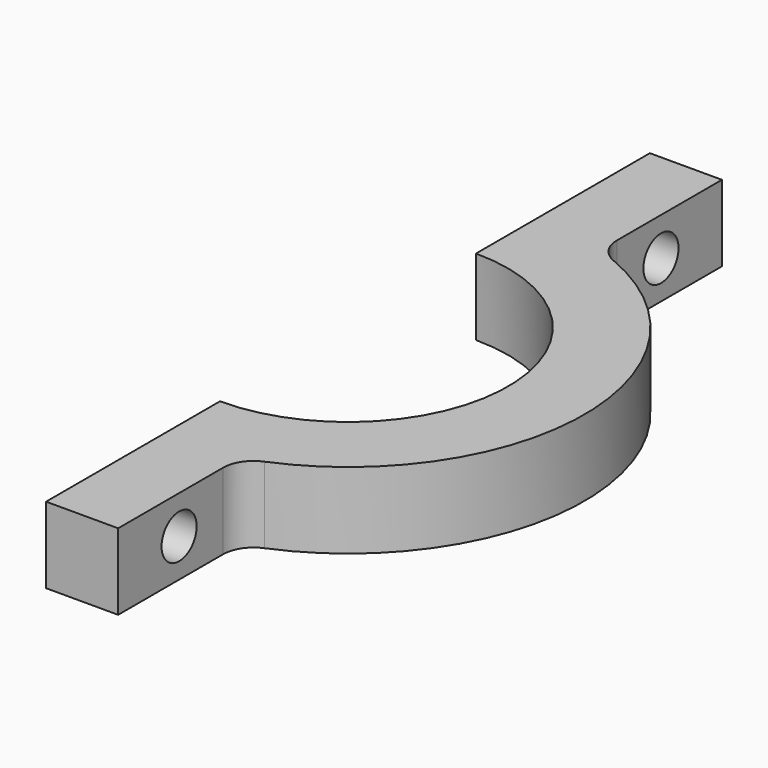
from build123d import *

# Parameters (mm, degrees)
F1_DEPTH = 6.35
F2_R     = 1.8288
F3_R     = 1.8288
F4_DEPTH = 6.005883
F5_R     = 2.54


with BuildPart() as f1:
    # F0 (on Top) → F1 (new body)
    with BuildSketch(Plane.XY):
        with BuildLine():
            ThreePointArc((0, 13.335), (13.335, 0), (0, -13.335))
            Line((0, -13.335), (0, -31.446429))
            Line((0, -31.446429), (6.005883, -31.446429))
            Line((6.005883, -31.446429), (6.005883, -18.746429))
            ThreePointArc((6.005883, -18.746429), (19.685, 0), (6.005883, 18.746429))
            Line((6.005883, 18.746429), (6.005883, 31.446429))
            Line((6.005883, 31.446429), (0, 31.446429))
            Line((0, 31.446429), (0, 13.335))
        make_face()
    extrude(amount=F1_DEPTH)

    # F2 (on face) + F3 (on face) → F4 (cut, through all)
    with BuildSketch(Plane.YZ.offset(6.005883)):
        with Locations((-25.096429, 3.175)):
            Circle(F2_R)
    with BuildSketch(Plane.YZ.offset(6.005883)):
        with Locations((25.096429, 3.175)):
            Circle(F3_R)
    extrude(amount=-F4_DEPTH, mode=Mode.SUBTRACT)

    # F5
    f5_edges = [f1.edges().sort_by_distance(p)[0] for p in [
        (6.005883, -18.746429, 3.175),
        (6.005883, 18.746429, 3.175),
    ]]
    fillet(f5_edges, radius=F5_R)


solid = f1.part
